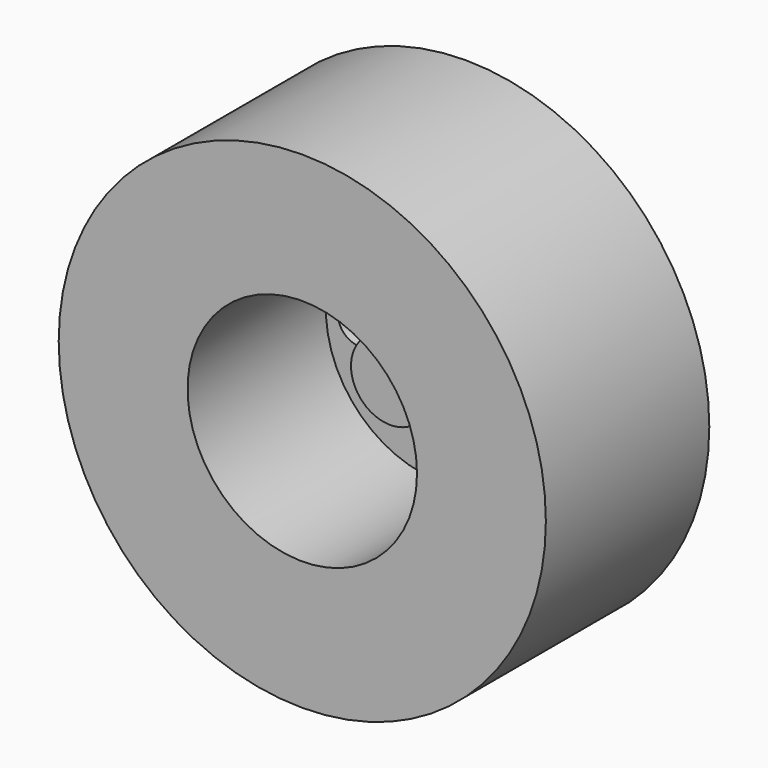
from build123d import *

# Parameters (mm, degrees)
F0_R      = 19.685
F0_R_2    = 10.16
F0_R_3    = 8.89
F1_DEPTH  = 24.892
F2_R      = 19.685
F2_R_2    = 3.175
F3_DEPTH  = 8.382
F4_R      = 9.271
F5_DEPTH  = 8.89
F6_R      = 9.271
F6_R_2    = 3.175
F7_DEPTH  = 5.08
F8_R      = 3.81
F8_R_2    = 3.175
F9_DEPTH  = 2.54
F10_R     = 1.778
F11_DEPTH = 7.6708
F12_R     = 0.1524
F13_DEPTH = 0.3175
F15_R     = 17.78
F15_R_2   = 10.16
F16_DEPTH = 12.7


with BuildPart() as f1:
    # F0 (on Front) → F1 (new body)
    with BuildSketch(Plane.XZ):
        Circle(F0_R)
        Circle(F0_R_2, mode=Mode.SUBTRACT)
        Circle(F0_R_2)
        Circle(F0_R_3, mode=Mode.SUBTRACT)
        Circle(F0_R_3)
    extrude(amount=F1_DEPTH)

    # F2 (on face) → F3 (cut)
    with BuildSketch(Plane(origin=(0, 0, 0), x_dir=(-1, 0, 0), z_dir=(0, 1, 0))):
        Circle(F2_R)
        Circle(F2_R_2, mode=Mode.SUBTRACT)
    extrude(amount=-F3_DEPTH, mode=Mode.SUBTRACT)

    # F4 (on face) → F5 (cut)
    with BuildSketch(Plane.XZ.offset(24.892)):
        Circle(F4_R)
    extrude(amount=-F5_DEPTH, mode=Mode.SUBTRACT)

    # F6 (on face) → F7 (cut)
    with BuildSketch(Plane.XZ.offset(16.002)):
        Circle(F6_R)
        Circle(F6_R_2, mode=Mode.SUBTRACT)
    extrude(amount=-F7_DEPTH, mode=Mode.SUBTRACT)

    # F8 (on face) → F9 (join)
    with BuildSketch(Plane.XZ.offset(10.922)):
        Circle(F8_R)
        Circle(F8_R_2, mode=Mode.SUBTRACT)
    extrude(amount=F9_DEPTH)

    # F10 (on face) → F11 (cut)
    with BuildSketch(Plane.XZ.offset(10.922)):
        with Locations((-4.6248319024, 4.6248319024)):
            Circle(F10_R)
        with BuildLine():
            ThreePointArc((1.778, 6.5405), (-1.2572358569, 7.7977358569), (0, 4.7625))
            ThreePointArc((0, 4.7625), (1.2572358569, 5.2832641431), (1.778, 6.5405))
        make_face()
        with Locations((4.6248319024, 4.6248319024)):
            Circle(F10_R)
        with Locations((6.5405, 0)):
            Circle(F10_R)
        with Locations((4.6248319024, -4.6248319024)):
            Circle(F10_R)
        with Locations((0, -6.5405)):
            Circle(F10_R)
        with Locations((-4.6248319024, -4.6248319024)):
            Circle(F10_R)
        with Locations((-6.5405, 0)):
            Circle(F10_R)
    extrude(amount=-F11_DEPTH, mode=Mode.SUBTRACT)

    # F12 (on face) → F13 (join)
    with BuildSketch(Plane.XZ.offset(13.462)):
        with BuildLine():
            ThreePointArc((0.1524, 3.4925), (-0.1077630735, 3.6002630735), (0, 3.3401))
            ThreePointArc((0, 3.3401), (0.1077630735, 3.3847369265), (0.1524, 3.4925))
        make_face()
        with Locations((2.0528399936, 2.8254918529)):
            Circle(F12_R)
        with Locations((3.3215648832, 1.0792418529)):
            Circle(F12_R)
        with Locations((3.3215648832, -1.0792418529)):
            Circle(F12_R)
        with Locations((2.0528399936, -2.8254918529)):
            Circle(F12_R)
        with Locations((0, -3.4925)):
            Circle(F12_R)
        with Locations((-2.0528399936, -2.8254918529)):
            Circle(F12_R)
        with Locations((-3.3215648832, -1.0792418529)):
            Circle(F12_R)
        with Locations((-3.3215648832, 1.0792418529)):
            Circle(F12_R)
        with Locations((-2.0528399936, 2.8254918529)):
            Circle(F12_R)
    extrude(amount=F13_DEPTH)

    # F15 (on face) → F16 (cut)
    with BuildSketch(Plane(origin=(0, -8.382, 0), x_dir=(-1, 0, 0), z_dir=(0, 1, 0))):
        Circle(F15_R)
        Circle(F15_R_2, mode=Mode.SUBTRACT)
    extrude(amount=-F16_DEPTH, mode=Mode.SUBTRACT)


solid = f1.part
